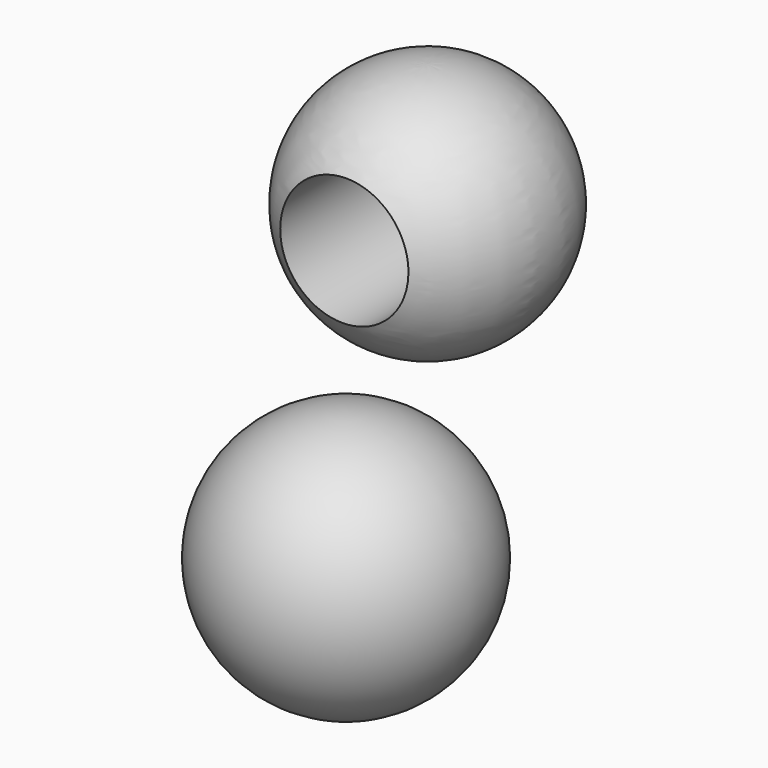
from build123d import *

# Parameters (mm, degrees)
F1_DEPTH  = 15.875
F3_DEPTH  = 50.8
F11_R     = 12.7
F12_DEPTH = 25.4


with BuildPart() as f1:
    # F0 (on Front) → F1 (new body, symmetric)
    with BuildSketch(Plane.XZ):
        Polygon((0, 38.1), (-38.100003, 0), (38.099997, 0), align=None)
    extrude(amount=F1_DEPTH, both=True)

    # F2 (on face) → F3 (join)
    with BuildSketch(Plane(origin=(-19.05, 0, 19.050002), x_dir=(0.707107, 0, 0.707107), z_dir=(-0.707107, 0, 0.707107))):
        with BuildLine():
            Line((7.890767, 15.875), (26.940767, 15.875))
            Line((26.940767, 15.875), (26.940767, -3.175))
            ThreePointArc((26.940767, -3.175), (40.411151, 2.404616), (45.990767, 15.875))
            ThreePointArc((45.990767, 15.875), (26.940767, 34.925), (7.890767, 15.875))
        make_face()
        with BuildLine():
            Line((26.940767, -15.875), (26.940767, -3.175))
            ThreePointArc((26.940767, -3.175), (13.470383, 2.404616), (7.890767, 15.875))
            Line((7.890767, 15.875), (-26.940772, 15.875))
            Line((-26.940772, 15.875), (-26.940772, -15.875))
            Line((-26.940772, -15.875), (26.940767, -15.875))
        make_face()
    extrude(amount=F3_DEPTH)


with BuildPart() as f5:
    # F4 (on Front) → F5 (revolve)
    with BuildSketch(Plane.XZ):
        with BuildLine():
            ThreePointArc((53.615499, 9.781756), (78.437114, 34.444888), (53.615499, 59.108019))
            Line((53.615499, 59.108019), (53.615499, 9.781756))
        make_face()
    revolve(axis=Axis((53.615499, 0, 34.444888), (0, 0, -1)))

    # F11 (on Front) → F12 (cut, symmetric)
    with BuildSketch(Plane.XZ):
        with Locations((53.954601, 34.941979)):
            Circle(F11_R)
    extrude(amount=F12_DEPTH, both=True, mode=Mode.SUBTRACT)


with BuildPart() as f7:
    # F6 (on Front) → F7 (revolve)
    with BuildSketch(Plane.XZ):
        with BuildLine():
            ThreePointArc((-58.942009, -60.990706), (-28.120065, -30.495353), (-58.942009, 0))
            Line((-58.942009, 0), (-58.942009, -60.990706))
        make_face()
    revolve(axis=Axis((-58.942009, 0, -30.495353), (0, 0, -1)))


with BuildPart() as f9:
    # F8 (on Front) → F9 (revolve)
    with BuildSketch(Plane.XZ):
        with BuildLine():
            ThreePointArc((37.23171, -59.152458), (62.96715, -33.417018), (37.23171, -7.681578))
            Line((37.23171, -7.681578), (37.23171, -59.152458))
        make_face()
    revolve(axis=Axis((37.23171, 0, -33.417018), (0, 0, -1)))


solid = Compound([f5.part, f9.part])
